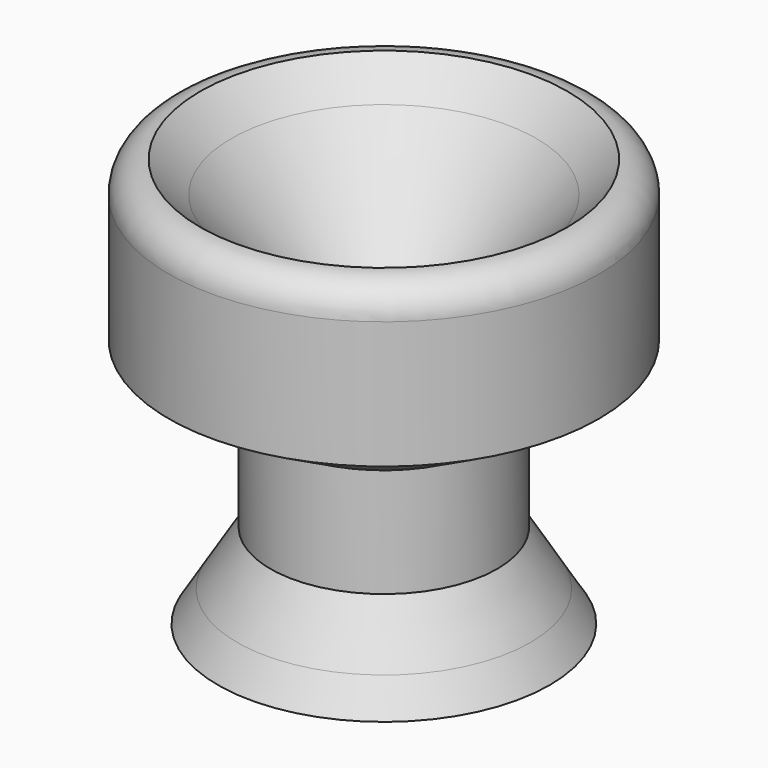
from build123d import *


with BuildPart() as f1:
    # F0 (on Front) → F1 (revolve)
    with BuildSketch(Plane.XZ):
        Polygon((17.880435, -35.012588), (0, -35.012588), (0, -38.822588), (20.221465, -38.822588), align=None)
        with BuildLine():
            ThreePointArc((26.210172, 7.225862), (25.094249, 9.919939), (22.400172, 11.035862))
            Line((22.400172, 11.035862), (18.590172, 7.225862))
            Line((18.590172, 7.225862), (18.590172, -12.52082))
            Line((18.590172, -12.52082), (26.210172, -8.298599))
            Line((26.210172, -8.298599), (26.210172, 7.225862))
        make_face()
        Polygon((18.590172, -12.52082), (18.590172, 7.225862), (3.823765, -9.549403), (3.823765, -23.782769), (0, -28.126729), (0, -35.012588), (17.880435, -35.012588), (13.834589, -28.428022), (13.834589, -15.155875), align=None)
    revolve(axis=Axis((0, 0, -13.893363), (0, 0, -1)))


solid = f1.part
